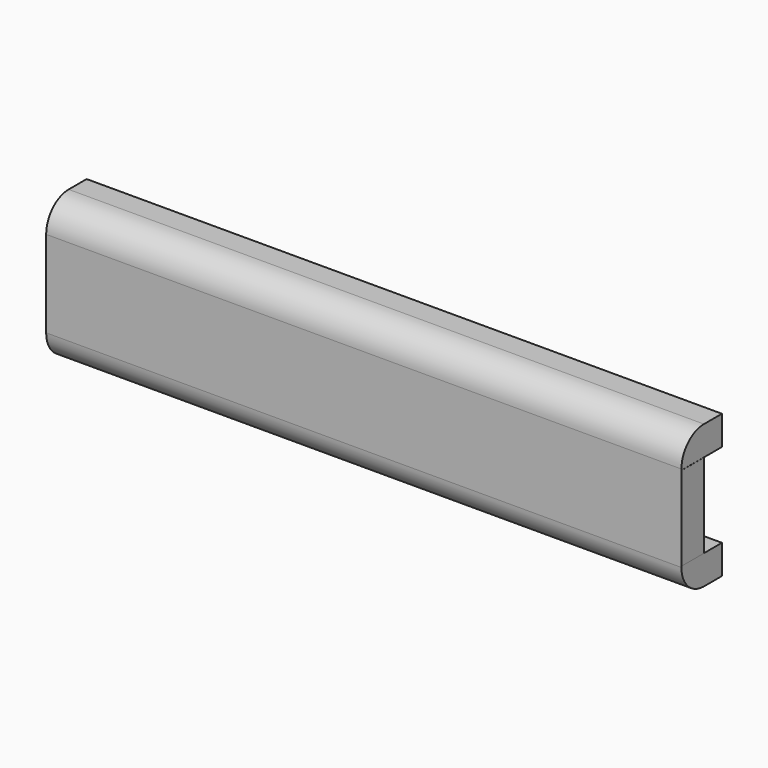
from build123d import *

# Parameters (mm, degrees)
F0_W     = 113
F0_H     = 15
F1_DEPTH = 5
F2_W     = 112.967252
F2_H     = 5.205671
F3_DEPTH = 9
F4_R     = 5
F5_W     = 48.795211
F5_H     = 2
F6_DEPTH = 10


with BuildPart() as f1:
    # F0 (on Front) → F1 (new body)
    with BuildSketch(Plane.XZ):
        Rectangle(F0_W, F0_H)
    extrude(amount=-F1_DEPTH)

    # F2 (on face) → F3 (join)
    with BuildSketch(Plane.XZ):
        with Locations((0, 10.102835)):
            Rectangle(F2_W, F2_H)
        with Locations((0, -10.102835)):
            Rectangle(F2_W, F2_H)
    extrude(amount=-F3_DEPTH)

    # F4
    f4_edges = [f1.edges().sort_by_distance(p)[0] for p in [
        (0, 0, 12.705671),
        (0, 0, -12.705671),
    ]]
    fillet(f4_edges, radius=F4_R)

    # F5 (on face) → F6 (cut)
    with BuildSketch(Plane(origin=(0, 0, -12.705671), x_dir=(1, 0, 0), z_dir=(0, 0, -1))):
        with Locations((-0.086021, -8)):
            Rectangle(F5_W, F5_H)
    extrude(amount=-F6_DEPTH, mode=Mode.SUBTRACT)


solid = f1.part
